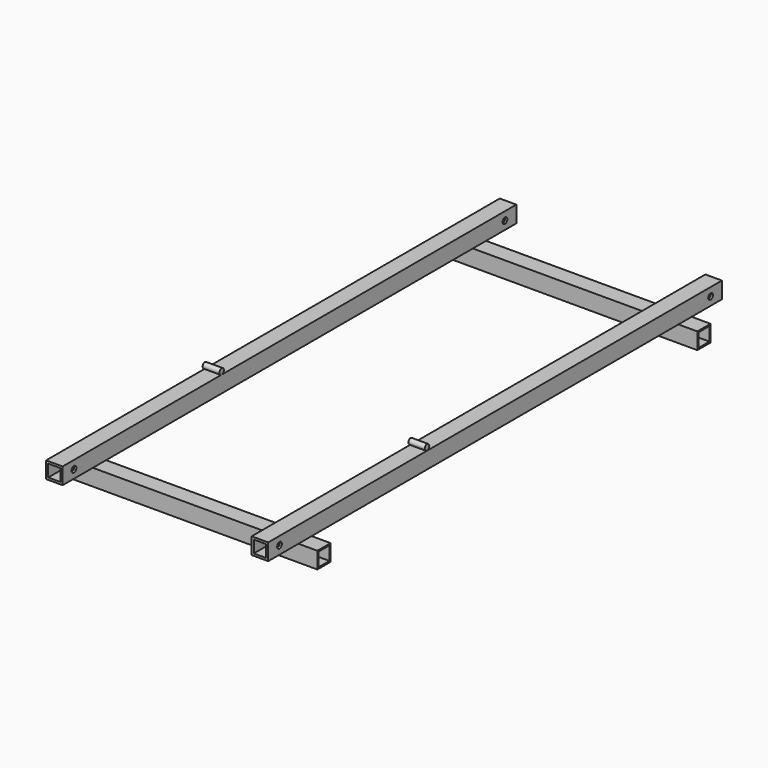
from build123d import *

# Parameters (mm, degrees)
F0_W      = 35
F0_H      = 35
F0_W_2    = 25.8728711307
F0_H_2    = 25.8728711307
F2_DEPTH  = 600
F1_W      = 35
F1_H      = 35
F1_W_2    = 29
F1_H_2    = 29
F3_DEPTH  = 275
F4_R      = 6.25
F5_DEPTH  = 501.65
F6_R      = 6.25
F7_DEPTH  = 39.37
F8_R      = 6
F9_DEPTH  = 34.798
F10_R     = 6
F11_DEPTH = 35.56


with BuildPart() as f2:
    # F0 (on Front) → F2 (new body, symmetric)
    with BuildSketch(Plane.XZ):
        with Locations((-217.5, -32.7009419724)):
            Rectangle(F0_W, F0_H)
        with Locations((-217.5, -32.7009419724)):
            Rectangle(F0_W_2, F0_H_2, mode=Mode.SUBTRACT)
    extrude(amount=F2_DEPTH, both=True)


with BuildPart() as f2b:
    # F0 (on Front) → F2, piece 2 (new body, symmetric)
    with BuildSketch(Plane.XZ):
        with Locations((217.5, -32.7009419724)):
            Rectangle(F0_W, F0_H)
        with Locations((217.5, -32.7009419724)):
            Rectangle(F0_W_2, F0_H_2, mode=Mode.SUBTRACT)
    extrude(amount=F2_DEPTH, both=True)


with BuildPart() as f3:
    # F1 (on Right) → F3 (new body, symmetric)
    with BuildSketch(Plane.YZ):
        with Locations((502.5, -67.7200500667)):
            Rectangle(F1_W, F1_H)
        with Locations((502.5, -67.7200500667)):
            Rectangle(F1_W_2, F1_H_2, mode=Mode.SUBTRACT)
    extrude(amount=F3_DEPTH, both=True)


with BuildPart() as f3b:
    # F1 (on Right) → F3, piece 2 (new body, symmetric)
    with BuildSketch(Plane.YZ):
        with Locations((-502.5, -67.7200500667)):
            Rectangle(F1_W, F1_H)
        with Locations((-502.5, -67.7200500667)):
            Rectangle(F1_W_2, F1_H_2, mode=Mode.SUBTRACT)
    extrude(amount=F3_DEPTH, both=True)


with BuildPart() as f5_tool:
    # F4 (on face) → F5 (new body)
    with BuildSketch(Plane(origin=(-235, 0, 0), x_dir=(0, -1, 0), z_dir=(-1, 0, 0))):
        with Locations((-570, -32.7009419724)):
            Circle(F4_R)
        with Locations((570, -32.7009419724)):
            Circle(F4_R)
    extrude(amount=-F5_DEPTH)


with BuildPart() as f2_1:
    add(f2.part)

    # F5: cut by f5_tool
    add(f5_tool.part, mode=Mode.SUBTRACT)

    # F6 (on face) → F7 (cut)
    with BuildSketch(Plane.YZ.offset(235)):
        with Locations((-570, -32.7009419724)):
            Circle(F6_R)
        with Locations((570, -32.7009419724)):
            Circle(F6_R)
    extrude(amount=-F7_DEPTH, mode=Mode.SUBTRACT)


with BuildPart() as f2b_1:
    add(f2b.part)

    # F5: cut by f5_tool
    add(f5_tool.part, mode=Mode.SUBTRACT)


with BuildPart() as f9:
    # F8 (on face) → F9 (new body)
    with BuildSketch(Plane.YZ.offset(235)):
        with Locations((-180, -8.7979223349)):
            Circle(F8_R)
    extrude(amount=-F9_DEPTH)


with BuildPart() as f11:
    # F10 (on face) → F11 (new body)
    with BuildSketch(Plane(origin=(-235, 0, 0), x_dir=(0, -1, 0), z_dir=(-1, 0, 0))):
        with Locations((179.9442470074, -8.8552506641)):
            Circle(F10_R)
    extrude(amount=-F11_DEPTH)


solid = Compound([f3.part, f3b.part, f2_1.part, f2b_1.part, f9.part, f11.part])
